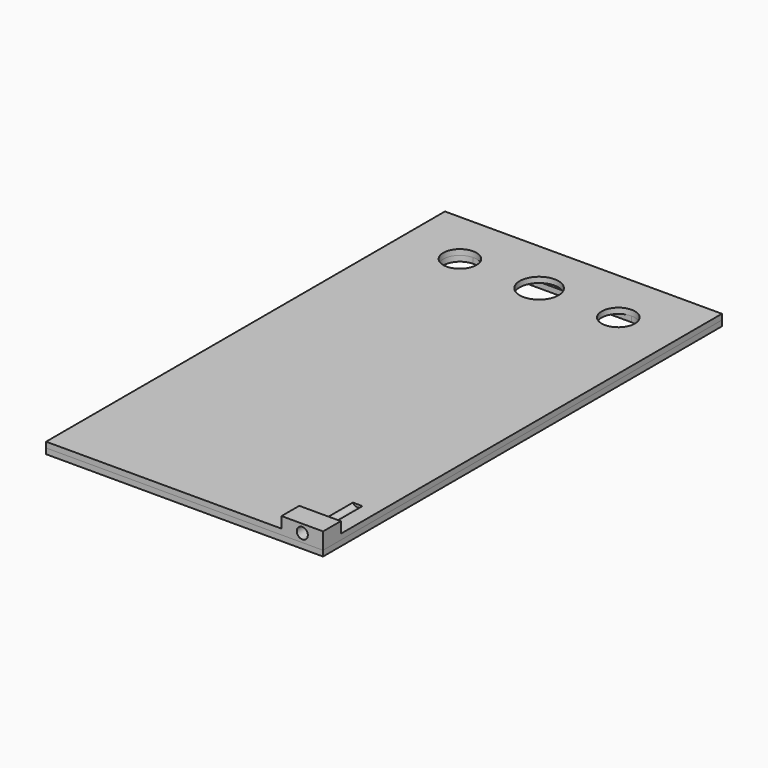
from build123d import *

# Parameters (mm, degrees)
F0_W     = 100
F0_H     = 180
F0_R     = 6
F0_R_2   = 7
F1_DEPTH = 2
F2_W     = 100
F2_H     = 180
F3_DEPTH = 2
F4_W     = 15
F4_H     = 8
F5_DEPTH = 4
F6_R     = 2
F7_DEPTH = 25


with BuildPart() as f1:
    # F0 (on Top) → F1 (new body)
    with BuildSketch(Plane.XY):
        Rectangle(F0_W, F0_H)
        with Locations((-28.601566, 70)):
            Circle(F0_R, mode=Mode.SUBTRACT)
        with Locations((0, 70)):
            Circle(F0_R_2, mode=Mode.SUBTRACT)
        with Locations((28.601566, 70)):
            Circle(F0_R, mode=Mode.SUBTRACT)
    extrude(amount=F1_DEPTH)

    # F4 (on face) → F5 (join)
    with BuildSketch(Plane.XY.offset(2)):
        with Locations((42.5, -86)):
            Rectangle(F4_W, F4_H)
    extrude(amount=F5_DEPTH)

    # F6 (on face) → F7 (cut)
    with BuildSketch(Plane.XZ.offset(90)):
        with Locations((42.5, 3)):
            Circle(F6_R)
    extrude(amount=-F7_DEPTH, mode=Mode.SUBTRACT)


with BuildPart() as f3:
    # F2 (on face) → F3 (new body)
    with BuildSketch(Plane(origin=(0, 0, 0), x_dir=(1, 0, 0), z_dir=(0, 0, -1))):
        Rectangle(F2_W, F2_H)
        with BuildLine():
            ThreePointArc((-28.601566, -76), (-34.601566, -70), (-28.601566, -64))
            Line((-28.601566, -64), (28.601566, -64))
            ThreePointArc((28.601566, -64), (32.844207, -65.757359), (34.601566, -70))
            ThreePointArc((34.601566, -70), (32.844207, -74.242641), (28.601566, -76))
            Line((28.601566, -76), (-28.601566, -76))
        make_face(mode=Mode.SUBTRACT)
    extrude(amount=F3_DEPTH)


solid = Compound([f1.part, f3.part])
